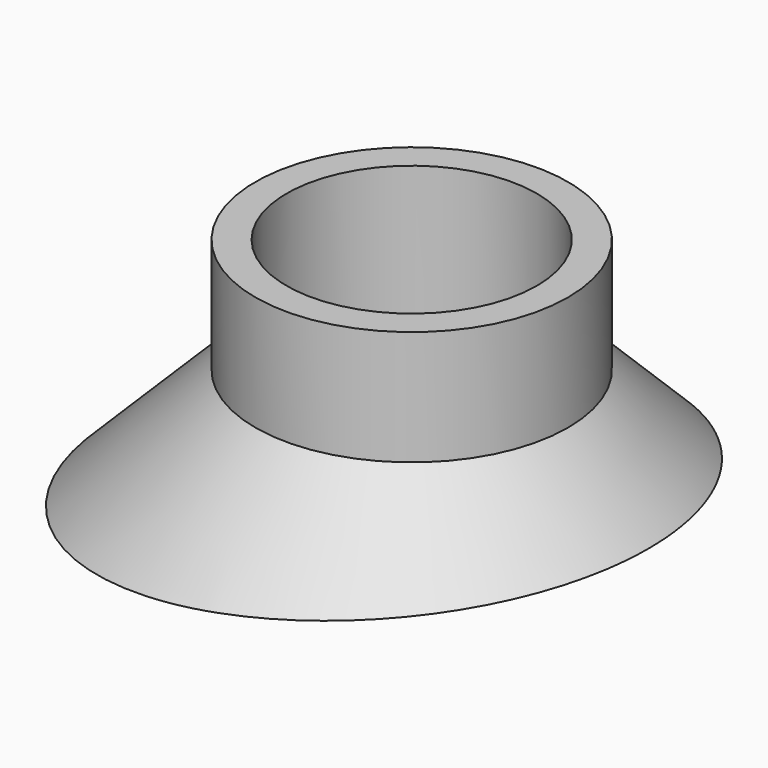
from build123d import *

# Parameters (mm, degrees)
F2_R     = 12
F3_DEPTH = 15
F5_DEPTH = 50


with BuildPart() as f1:
    # F0 (on Front) → F1 (revolve)
    with BuildSketch(Plane.XZ):
        Polygon((0, 24), (0, 0), (28, 0), (15, 13), (15, 24), align=None)
    revolve(axis=Axis((0, 0, 12), (0, 0, -1)))

    # F2 (on face) → F3 (cut)
    with BuildSketch(Plane.XY.offset(24)):
        Circle(F2_R)
    extrude(amount=-F3_DEPTH, mode=Mode.SUBTRACT)

    # F4 (on Front) → F5 (cut, symmetric)
    with BuildSketch(Plane.XZ):
        Polygon((33.364898, 6.410917), (-27.630899, 0), (33.364898, 0), align=None)
    extrude(amount=F5_DEPTH, both=True, mode=Mode.SUBTRACT)


solid = f1.part
